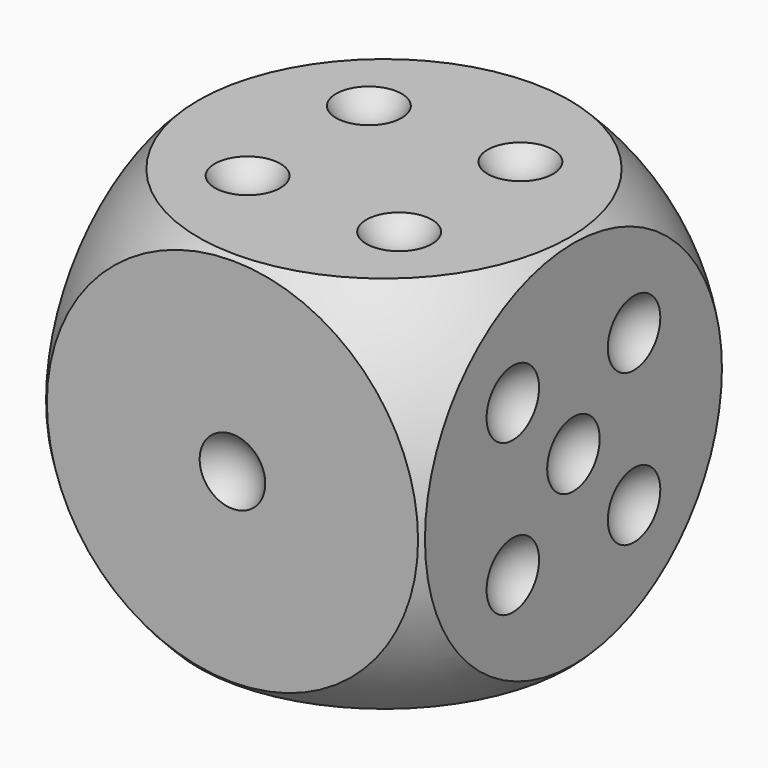
from build123d import *

# Parameters (mm, degrees)
FUSION003_PLACEMENT_ANGLE = 90
FUSION001_PLACEMENT_ANGLE = 270
FUSION002_PLACEMENT_ANGLE = 270
FUSION_PLACEMENT_ANGLE    = 90
BOX_W                     = 10
BOX_H                     = 10
BOX_DEPTH                 = 10


with BuildPart() as sphere013:
    # Sphere014 → Sphere014 (revolve)
    with BuildSketch(Plane(origin=(3, 0, 3), x_dir=(1, 0, 0), z_dir=(0, -1, 0))):
        with BuildLine():
            ThreePointArc((0, -1), (1, 0), (0, 1))
            Line((0, 1), (0, -1))
        make_face()
    revolve(axis=Axis((3, 0, 3), (0, 0, 1)))


with BuildPart() as sphere012:
    # Sphere013 → Sphere013 (revolve)
    with BuildSketch(Plane(origin=(3, 0, 7), x_dir=(1, 0, 0), z_dir=(0, -1, 0))):
        with BuildLine():
            ThreePointArc((0, -1), (1, 0), (0, 1))
            Line((0, 1), (0, -1))
        make_face()
    revolve(axis=Axis((3, 0, 7), (0, 0, 1)))


with BuildPart() as sphere011:
    # Sphere012 → Sphere012 (revolve)
    with BuildSketch(Plane(origin=(7, 0, 3), x_dir=(1, 0, 0), z_dir=(0, -1, 0))):
        with BuildLine():
            ThreePointArc((0, -1), (1, 0), (0, 1))
            Line((0, 1), (0, -1))
        make_face()
    revolve(axis=Axis((7, 0, 3), (0, 0, 1)))


with BuildPart() as sphere010:
    # Sphere011 → Sphere011 (revolve)
    with BuildSketch(Plane(origin=(7, 0, 7), x_dir=(1, 0, 0), z_dir=(0, -1, 0))):
        with BuildLine():
            ThreePointArc((0, -1), (1, 0), (0, 1))
            Line((0, 1), (0, -1))
        make_face()
    revolve(axis=Axis((7, 0, 7), (0, 0, 1)))


with BuildPart() as side5:
    # Sphere015 → Sphere015 (revolve)
    with BuildSketch(Plane(origin=(5, 0, 5), x_dir=(1, 0, 0), z_dir=(0, -1, 0))):
        with BuildLine():
            ThreePointArc((0, -1), (1, 0), (0, 1))
            Line((0, 1), (0, -1))
        make_face()
    revolve(axis=Axis((5, 0, 5), (0, 0, 1)))

    # Fusion003: union Sphere013, Sphere012, Sphere011, Sphere010
    add(sphere013.part)
    add(sphere012.part)
    add(sphere011.part)
    add(sphere010.part)


with BuildPart() as side5_1:
    # Fusion003 placement: moved
    add(side5.part.moved(Location((10.5, 0, 0))).rotate(Axis((10.5, 0, 0), (0, 0, 1)), FUSION003_PLACEMENT_ANGLE))


with BuildPart() as side1:
    # Sphere001 → Sphere001 (revolve)
    with BuildSketch(Plane(origin=(5, -0.5, 5), x_dir=(1, 0, 0), z_dir=(0, -1, 0))):
        with BuildLine():
            ThreePointArc((0, -1), (1, 0), (0, 1))
            Line((0, 1), (0, -1))
        make_face()
    revolve(axis=Axis((5, -0.5, 5), (0, 0, 1)))


with BuildPart() as sphere004:
    # Sphere005 → Sphere005 (revolve)
    with BuildSketch(Plane(origin=(3, 0, 7), x_dir=(1, 0, 0), z_dir=(0, -1, 0))):
        with BuildLine():
            ThreePointArc((0, -1), (1, 0), (0, 1))
            Line((0, 1), (0, -1))
        make_face()
    revolve(axis=Axis((3, 0, 7), (0, 0, 1)))


with BuildPart() as sphere003:
    # Sphere004 → Sphere004 (revolve)
    with BuildSketch(Plane(origin=(5, 0, 5), x_dir=(1, 0, 0), z_dir=(0, -1, 0))):
        with BuildLine():
            ThreePointArc((0, -1), (1, 0), (0, 1))
            Line((0, 1), (0, -1))
        make_face()
    revolve(axis=Axis((5, 0, 5), (0, 0, 1)))


with BuildPart() as side3:
    # Sphere006 → Sphere006 (revolve)
    with BuildSketch(Plane(origin=(7, 0, 3), x_dir=(1, 0, 0), z_dir=(0, -1, 0))):
        with BuildLine():
            ThreePointArc((0, -1), (1, 0), (0, 1))
            Line((0, 1), (0, -1))
        make_face()
    revolve(axis=Axis((7, 0, 3), (0, 0, 1)))

    # Fusion001: union Sphere004, Sphere003
    add(sphere004.part)
    add(sphere003.part)


with BuildPart() as side3_1:
    # Fusion001 placement: moved
    add(side3.part.moved(Location((0, 0, -0.5))).rotate(Axis((0, 0, -0.5), (1, 0, 0)), FUSION001_PLACEMENT_ANGLE))


with BuildPart() as sphere008:
    # Sphere009 → Sphere009 (revolve)
    with BuildSketch(Plane(origin=(3, 0, 7), x_dir=(1, 0, 0), z_dir=(0, -1, 0))):
        with BuildLine():
            ThreePointArc((0, -1), (1, 0), (0, 1))
            Line((0, 1), (0, -1))
        make_face()
    revolve(axis=Axis((3, 0, 7), (0, 0, 1)))


with BuildPart() as sphere007:
    # Sphere008 → Sphere008 (revolve)
    with BuildSketch(Plane(origin=(7, 0, 3), x_dir=(1, 0, 0), z_dir=(0, -1, 0))):
        with BuildLine():
            ThreePointArc((0, -1), (1, 0), (0, 1))
            Line((0, 1), (0, -1))
        make_face()
    revolve(axis=Axis((7, 0, 3), (0, 0, 1)))


with BuildPart() as sphere006:
    # Sphere007 → Sphere007 (revolve)
    with BuildSketch(Plane(origin=(7, 0, 7), x_dir=(1, 0, 0), z_dir=(0, -1, 0))):
        with BuildLine():
            ThreePointArc((0, -1), (1, 0), (0, 1))
            Line((0, 1), (0, -1))
        make_face()
    revolve(axis=Axis((7, 0, 7), (0, 0, 1)))


with BuildPart() as side4:
    # Sphere010 → Sphere010 (revolve)
    with BuildSketch(Plane(origin=(3, 0, 3), x_dir=(1, 0, 0), z_dir=(0, -1, 0))):
        with BuildLine():
            ThreePointArc((0, -1), (1, 0), (0, 1))
            Line((0, 1), (0, -1))
        make_face()
    revolve(axis=Axis((3, 0, 3), (0, 0, 1)))

    # Fusion002: union Sphere008, Sphere007, Sphere006
    add(sphere008.part)
    add(sphere007.part)
    add(sphere006.part)


with BuildPart() as side4_1:
    # Fusion002 placement: moved
    add(side4.part.moved(Location((0, 0, 10.5))).rotate(Axis((0, 0, 10.5), (1, 0, 0)), FUSION002_PLACEMENT_ANGLE))


with BuildPart() as sphere001:
    # Sphere002 → Sphere002 (revolve)
    with BuildSketch(Plane(origin=(7, 0, 7), x_dir=(1, 0, 0), z_dir=(0, -1, 0))):
        with BuildLine():
            ThreePointArc((0, -1), (1, 0), (0, 1))
            Line((0, 1), (0, -1))
        make_face()
    revolve(axis=Axis((7, 0, 7), (0, 0, 1)))


with BuildPart() as side2:
    # Sphere003 → Sphere003 (revolve)
    with BuildSketch(Plane(origin=(3, 0, 3), x_dir=(1, 0, 0), z_dir=(0, -1, 0))):
        with BuildLine():
            ThreePointArc((0, -1), (1, 0), (0, 1))
            Line((0, 1), (0, -1))
        make_face()
    revolve(axis=Axis((3, 0, 3), (0, 0, 1)))

    # Fusion: union Sphere001
    add(sphere001.part)


with BuildPart() as side2_1:
    # Fusion placement: moved
    add(side2.part.moved(Location((-0.5, 0, 0))).rotate(Axis((-0.5, 0, 0), (0, 0, 1)), FUSION_PLACEMENT_ANGLE))


with BuildPart() as sphere019:
    # Sphere020 → Sphere020 (revolve)
    with BuildSketch(Plane(origin=(3, 0, 5), x_dir=(1, 0, 0), z_dir=(0, -1, 0))):
        with BuildLine():
            ThreePointArc((0, -1), (1, 0), (0, 1))
            Line((0, 1), (0, -1))
        make_face()
    revolve(axis=Axis((3, 0, 5), (0, 0, 1)))


with BuildPart() as sphere018:
    # Sphere019 → Sphere019 (revolve)
    with BuildSketch(Plane(origin=(3, 0, 3), x_dir=(1, 0, 0), z_dir=(0, -1, 0))):
        with BuildLine():
            ThreePointArc((0, -1), (1, 0), (0, 1))
            Line((0, 1), (0, -1))
        make_face()
    revolve(axis=Axis((3, 0, 3), (0, 0, 1)))


with BuildPart() as sphere017:
    # Sphere018 → Sphere018 (revolve)
    with BuildSketch(Plane(origin=(3, 0, 7), x_dir=(1, 0, 0), z_dir=(0, -1, 0))):
        with BuildLine():
            ThreePointArc((0, -1), (1, 0), (0, 1))
            Line((0, 1), (0, -1))
        make_face()
    revolve(axis=Axis((3, 0, 7), (0, 0, 1)))


with BuildPart() as sphere016:
    # Sphere017 → Sphere017 (revolve)
    with BuildSketch(Plane(origin=(7, 0, 3), x_dir=(1, 0, 0), z_dir=(0, -1, 0))):
        with BuildLine():
            ThreePointArc((0, -1), (1, 0), (0, 1))
            Line((0, 1), (0, -1))
        make_face()
    revolve(axis=Axis((7, 0, 3), (0, 0, 1)))


with BuildPart() as sphere015:
    # Sphere016 → Sphere016 (revolve)
    with BuildSketch(Plane(origin=(7, 0, 7), x_dir=(1, 0, 0), z_dir=(0, -1, 0))):
        with BuildLine():
            ThreePointArc((0, -1), (1, 0), (0, 1))
            Line((0, 1), (0, -1))
        make_face()
    revolve(axis=Axis((7, 0, 7), (0, 0, 1)))


with BuildPart() as sides:
    # Sphere021 → Sphere021 (revolve)
    with BuildSketch(Plane(origin=(7, 0, 5), x_dir=(1, 0, 0), z_dir=(0, -1, 0))):
        with BuildLine():
            ThreePointArc((0, -1), (1, 0), (0, 1))
            Line((0, 1), (0, -1))
        make_face()
    revolve(axis=Axis((7, 0, 5), (0, 0, 1)))

    # Fusion004: union Sphere019, Sphere018, Sphere017, Sphere016, Sphere015
    add(sphere019.part)
    add(sphere018.part)
    add(sphere017.part)
    add(sphere016.part)
    add(sphere015.part)


with BuildPart() as sides_1:
    # Fusion004 placement: moved
    add(sides.part.moved(Location((0, 10.5, 0))))

    # Fusion005: union Side5, Side1, Side3, Side4, Side2
    add(side5_1.part)
    add(side1.part)
    add(side3_1.part)
    add(side4_1.part)
    add(side2_1.part)


with BuildPart() as sphere:
    # Sphere → Sphere (revolve)
    with BuildSketch(Plane(origin=(5, 5, 5), x_dir=(1, 0, 0), z_dir=(0, -1, 0))):
        with BuildLine():
            ThreePointArc((0, -7), (7, 0), (0, 7))
            Line((0, 7), (0, -7))
        make_face()
    revolve(axis=Axis((5, 5, 5), (0, 0, 1)))


with BuildPart() as dice:
    # Box → Box (new body)
    with BuildSketch(Plane.XY):
        with Locations((5, 5)):
            Rectangle(BOX_W, BOX_H)
    extrude(amount=BOX_DEPTH)

    # Common: intersect Sphere
    add(sphere.part, mode=Mode.INTERSECT)

    # Cut: cut Sides
    add(sides_1.part, mode=Mode.SUBTRACT)


solid = dice.part
